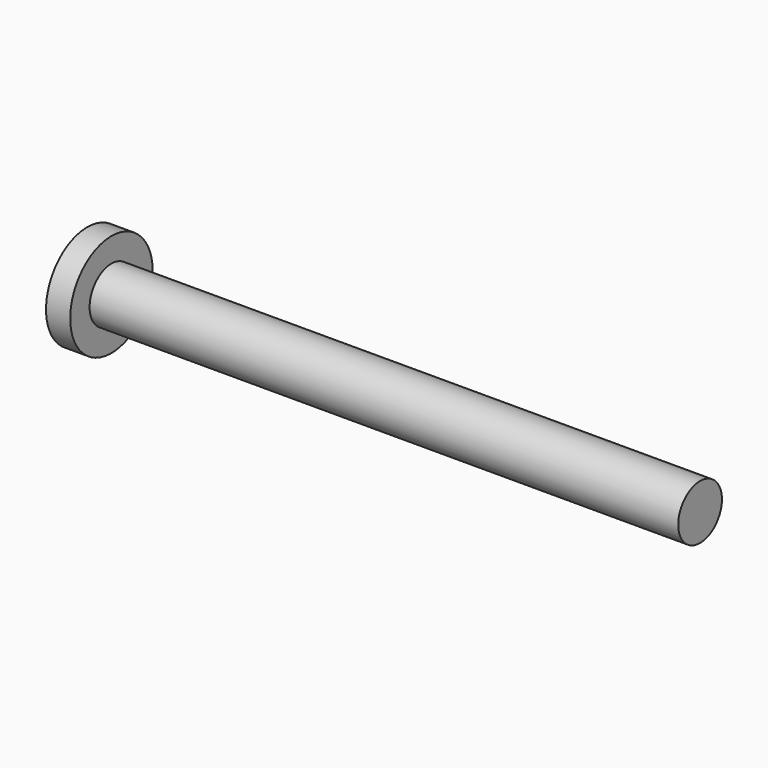
from build123d import *

# Parameters (mm, degrees)
F0_W = 31.75
F0_H = 1.4732


with BuildPart() as f1:
    # F0 (on Top) → F1 (revolve)
    with BuildSketch(Plane.XY):
        Polygon((-1.304735, 0), (0, 0), (0, 1.4732), (0, 2.7813), (-1.304735, 2.7813), align=None)
        with Locations((15.875, 0.7366)):
            Rectangle(F0_W, F0_H)
    revolve(axis=Axis((15.875, 0, 0), (1, 0, 0)))


solid = f1.part
